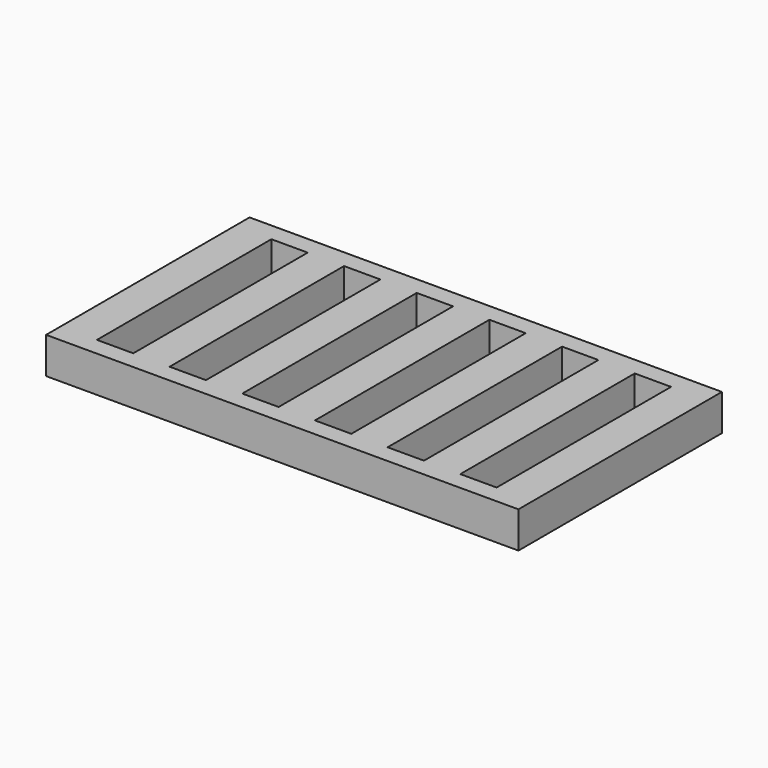
from build123d import *

# Parameters (mm, degrees)
F0_W     = 10
F0_H     = 60
F1_DEPTH = 10


with BuildPart() as f1:
    # F0 (on Top) → F1 (new body)
    with BuildSketch(Plane.XY):
        with Locations((-60, 0)):
            Rectangle(F0_W, F0_H)
        with Locations((-40, 0)):
            Rectangle(F0_W, F0_H)
        Polygon((65, 30), (65, 35), (-65, 35), (-65, 30), (-55, 30), (-45, 30), (-35, 30), (-25, 30), (-15, 30), (-5, 30), (5, 30), (15, 30), (25, 30), (35, 30), (45, 30), (55, 30), align=None)
        with Locations((-20, 0)):
            Rectangle(F0_W, F0_H)
        Rectangle(F0_W, F0_H)
        with Locations((20, 0)):
            Rectangle(F0_W, F0_H)
        with Locations((40, 0)):
            Rectangle(F0_W, F0_H)
        with Locations((60, 0)):
            Rectangle(F0_W, F0_H)
        Polygon((65, -35), (65, -30), (55, -30), (45, -30), (35, -30), (25, -30), (15, -30), (5, -30), (-5, -30), (-15, -30), (-25, -30), (-35, -30), (-45, -30), (-55, -30), (-65, -30), (-65, -35), align=None)
    extrude(amount=F1_DEPTH)


solid = f1.part
